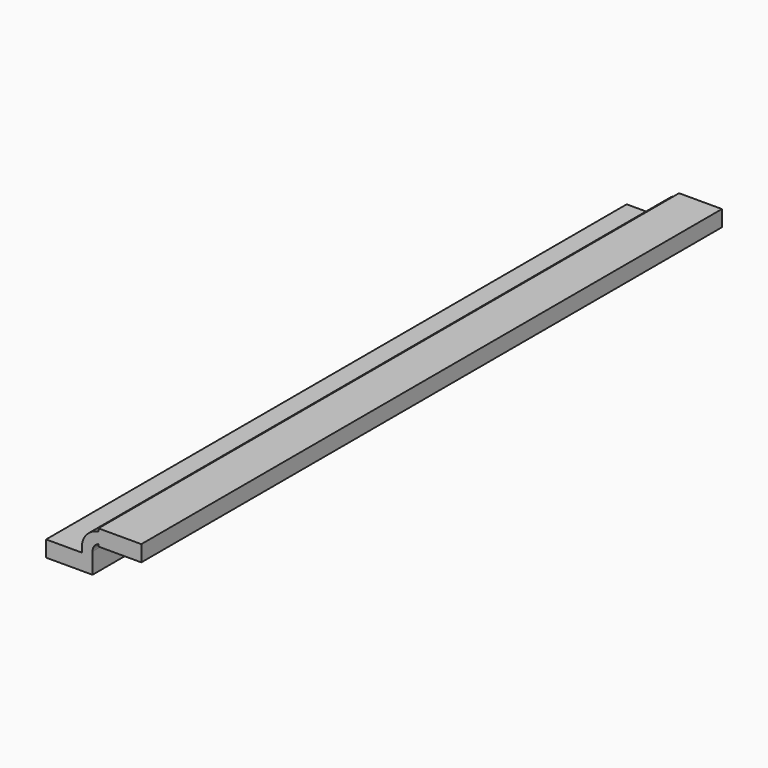
from build123d import *

# Parameters (mm, degrees)
F1_DEPTH = 25.4


with BuildPart() as f1:
    # F0 (on Front) → F1 (new body, symmetric)
    with BuildSketch(Plane.XZ):
        Polygon((-1.625, -0.5625), (1.625, -0.5625), (1.625, 0.5625), (0.875, 0.5625), (-1.625, 0.5625), align=None)
        with BuildLine():
            Line((0.875, 0.5625), (1.625, 0.5625))
            Line((1.625, 0.5625), (1.625, 0.8755))
            ThreePointArc((1.625, 0.8755), (1.739421, 1.235964), (2.04079, 1.464445))
            Line((2.04079, 1.464445), (2.04079, 2.234491))
            ThreePointArc((2.04079, 2.234491), (1.206379, 1.770755), (0.875, 0.8755))
            Line((0.875, 0.8755), (0.875, 0.5625))
        make_face()
        with BuildLine():
            ThreePointArc((2.25, 2.2505), (2.145089, 2.246492), (2.04079, 2.234491))
            Line((2.04079, 2.234491), (2.04079, 1.464445))
            ThreePointArc((2.04079, 1.464445), (2.143853, 1.49142), (2.25, 1.5005))
            Line((2.25, 1.5005), (3.375, 1.5005))
            Line((3.375, 1.5005), (3.375, 2.2505))
            Line((3.375, 2.2505), (2.25, 2.2505))
        make_face()
        with BuildLine():
            Line((2.04079, 2.4375), (2.04079, 2.234491))
            ThreePointArc((2.04079, 2.234491), (2.145089, 2.246492), (2.25, 2.2505))
            Line((2.25, 2.2505), (3.375, 2.2505))
            Line((3.375, 2.2505), (3.375, 1.5005))
            Line((3.375, 1.5005), (2.25, 1.5005))
            ThreePointArc((2.25, 1.5005), (2.143853, 1.49142), (2.04079, 1.464445))
            Line((2.04079, 1.464445), (2.04079, 1.3125))
            Line((2.04079, 1.3125), (5.04079, 1.3125))
            Line((5.04079, 1.3125), (5.04079, 2.4375))
            Line((5.04079, 2.4375), (2.04079, 2.4375))
        make_face()
    extrude(amount=F1_DEPTH, both=True)


solid = f1.part
